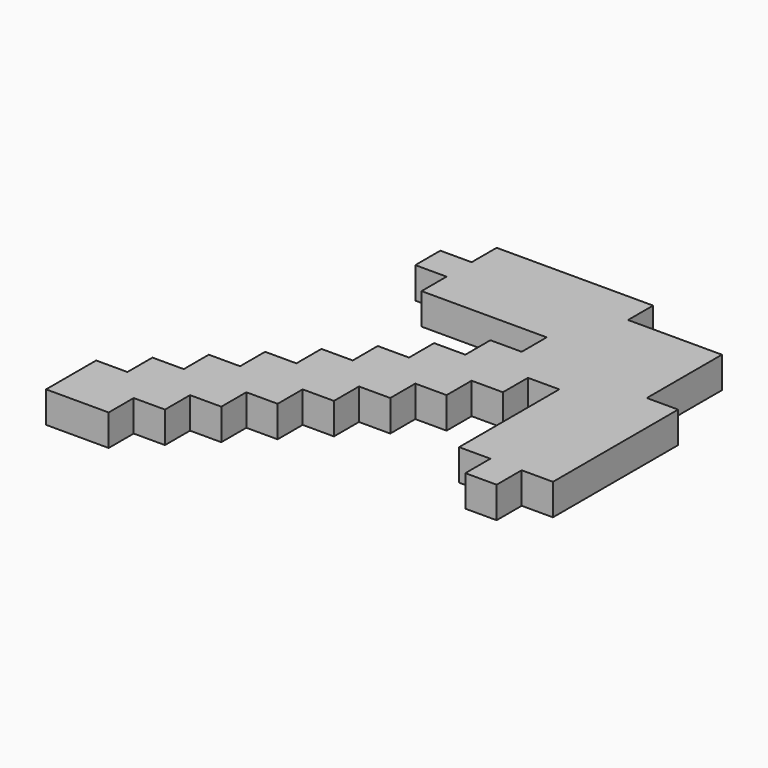
from build123d import *

# Parameters (mm, degrees)
F0_W     = 3.175
F0_H     = 3.175
F0_W_2   = 6.35
F0_H_2   = 6.35
F0_W_3   = 0.254
F0_H_3   = 0.254
F1_DEPTH = 3.175


with BuildPart() as f1:
    # F0 (on Top) → F1 (new body)
    with BuildSketch(Plane.XY):
        with Locations((-11.0509185119, 5.8550464224)):
            Rectangle(F0_W, F0_H)
        with Locations((-23.7509185119, -10.0199535776)):
            Rectangle(F0_W, F0_H)
        with Locations((-20.5759185119, -3.6699535776)):
            Rectangle(F0_W, F0_H)
        Polygon((0.0615814881, 16.9675464224), (-9.4634185119, 16.9675464224), (-9.4634185119, 10.6175464224), (-12.6384185119, 10.6175464224), (-12.6384185119, 7.4425464224), (-9.4634185119, 7.4425464224), (-9.4634185119, 4.2675464224), (-6.2884185119, 4.2675464224), (-6.2884185119, 7.4425464224), (0.0615814881, 7.4425464224), align=None)
        with Locations((-26.9259185119, -10.0199535776)):
            Rectangle(F0_W, F0_H)
        with Locations((-26.9259185119, -6.8449535776)):
            Rectangle(F0_W, F0_H)
        with Locations((-17.4009185119, 2.6800464224)):
            Rectangle(F0_W, F0_H)
        with Locations((-30.1009185119, -16.3699535776)):
            Rectangle(F0_W, F0_H)
        with Locations((-14.2259185119, -0.4949535776)):
            Rectangle(F0_W, F0_H)
        with Locations((-14.2259185119, 5.8550464224)):
            Rectangle(F0_W, F0_H)
        with Locations((-3.1134185119, 5.8550464224)):
            Rectangle(F0_W_2, F0_H)
        with Locations((-11.0509185119, 2.6800464224)):
            Rectangle(F0_W, F0_H)
        Polygon((3.2365814881, 7.4425464224), (0.0615814881, 7.4425464224), (0.0615814881, 4.2675464224), (-6.2884185119, 4.2675464224), (-6.2884185119, -8.4324535776), (-3.1134185119, -8.4324535776), (-3.1134185119, -8.1784535776), (0.0615814881, -8.1784535776), (0.0615814881, -8.4324535776), (3.2365814881, -8.4324535776), align=None)
        with Locations((-11.0509185119, 13.7925464224)):
            Rectangle(F0_W, F0_H_2)
        Polygon((-12.6384185119, 10.6175464224), (-12.6384185119, 16.9675464224), (-9.4634185119, 16.9675464224), (-9.4634185119, 20.1425464224), (-25.3384185119, 20.1425464224), (-25.3384185119, 16.9675464224), (-25.0844185119, 16.9675464224), (-25.0844185119, 13.7925464224), (-25.3384185119, 13.7925464224), (-25.3384185119, 10.6175464224), align=None)
        Polygon((-34.8634185119, -17.9574535776), (-34.8634185119, -14.7824535776), (-38.0384185119, -14.7824535776), (-38.0384185119, -21.1324535776), (-31.6884185119, -21.1324535776), (-31.6884185119, -17.9574535776), align=None)
        with Locations((-1.5259185119, -10.0199535776)):
            Rectangle(F0_W, F0_H)
        with Locations((-26.9259185119, 15.3800464224)):
            Rectangle(F0_W, F0_H)
        with Locations((-23.7509185119, -3.6699535776)):
            Rectangle(F0_W, F0_H)
        with Locations((-20.5759185119, -0.4949535776)):
            Rectangle(F0_W, F0_H)
        with Locations((-17.4009185119, -3.6699535776)):
            Rectangle(F0_W, F0_H)
        with Locations((-17.4009185119, -0.4949535776)):
            Rectangle(F0_W, F0_H)
        with Locations((-20.5759185119, -6.8449535776)):
            Rectangle(F0_W, F0_H)
        with Locations((-33.2759185119, -13.1949535776)):
            Rectangle(F0_W, F0_H)
        with Locations((-30.1009185119, -13.1949535776)):
            Rectangle(F0_W, F0_H)
        with Locations((-23.7509185119, -6.8449535776)):
            Rectangle(F0_W, F0_H)
        with Locations((-30.1009185119, -10.0199535776)):
            Rectangle(F0_W, F0_H)
        with Locations((-14.2259185119, 2.6800464224)):
            Rectangle(F0_W, F0_H)
        with Locations((-33.2759185119, -16.3699535776)):
            Rectangle(F0_W, F0_H)
        with Locations((-26.9259185119, -13.1949535776)):
            Rectangle(F0_W, F0_H)
        with Locations((-25.2114185119, 15.3800464224)):
            Rectangle(F0_W_3, F0_H)
        with Locations((-1.5259185119, -8.3054535776)):
            Rectangle(F0_W, F0_H_3)
    extrude(amount=F1_DEPTH)


solid = f1.part
